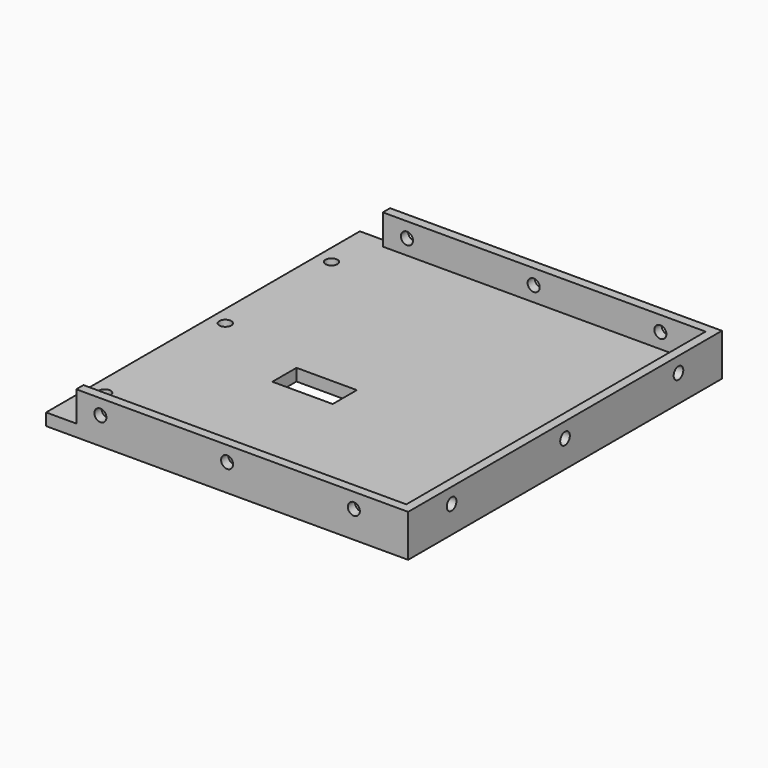
from build123d import *

# Parameters (mm, degrees)
F0_W      = 120
F0_H      = 130
F1_DEPTH  = 4
F3_DEPTH  = 10
F4_R      = 2
F5_DEPTH  = 5
F6_R      = 2
F7_DEPTH  = 135
F8_R      = 2
F9_DEPTH  = 5
F10_W     = 20
F10_H     = 10
F11_DEPTH = 5


with BuildPart() as f1:
    # F0 (on Top) → F1 (new body)
    with BuildSketch(Plane.XY):
        with Locations((-37.729894, -24.004591)):
            Rectangle(F0_W, F0_H)
    extrude(amount=F1_DEPTH)

    # F2 (on face) → F3 (join)
    with BuildSketch(Plane.XY.offset(4)):
        Polygon((-87.729894, -86.004591), (-87.729894, -89.004591), (22.270106, -89.004591), (22.270106, 40.995409), (-87.729894, 40.995409), (-87.729894, 37.995409), (19.270106, 37.995409), (19.270106, -86.004591), align=None)
    extrude(amount=F3_DEPTH)

    # F4 (on face) → F5 (cut)
    with BuildSketch(Plane.XY.offset(4)):
        with Locations((-92.729894, -21.004591)):
            Circle(F4_R)
        with Locations((-92.729894, -71.004591)):
            Circle(F4_R)
        with Locations((-92.729894, 22.995409)):
            Circle(F4_R)
    extrude(amount=-F5_DEPTH, mode=Mode.SUBTRACT)

    # F6 (on face) → F7 (cut)
    with BuildSketch(Plane.XZ.offset(89.004591)):
        with Locations((4.270106, 9)):
            Circle(F6_R)
        with Locations((-37.729894, 9)):
            Circle(F6_R)
        with Locations((-79.729894, 9)):
            Circle(F6_R)
    extrude(amount=-F7_DEPTH, mode=Mode.SUBTRACT)

    # F8 (on face) → F9 (cut)
    with BuildSketch(Plane.YZ.offset(22.270106)):
        with Locations((-71.004591, 9)):
            Circle(F8_R)
        with Locations((-24.004591, 9)):
            Circle(F8_R)
        with Locations((22.995409, 9)):
            Circle(F8_R)
    extrude(amount=-F9_DEPTH, mode=Mode.SUBTRACT)

    # F10 (on face) → F11 (cut)
    with BuildSketch(Plane.XY):
        with Locations((-52.729894, -34.004591)):
            Rectangle(F10_W, F10_H)
    extrude(amount=F11_DEPTH, mode=Mode.SUBTRACT)


solid = f1.part
